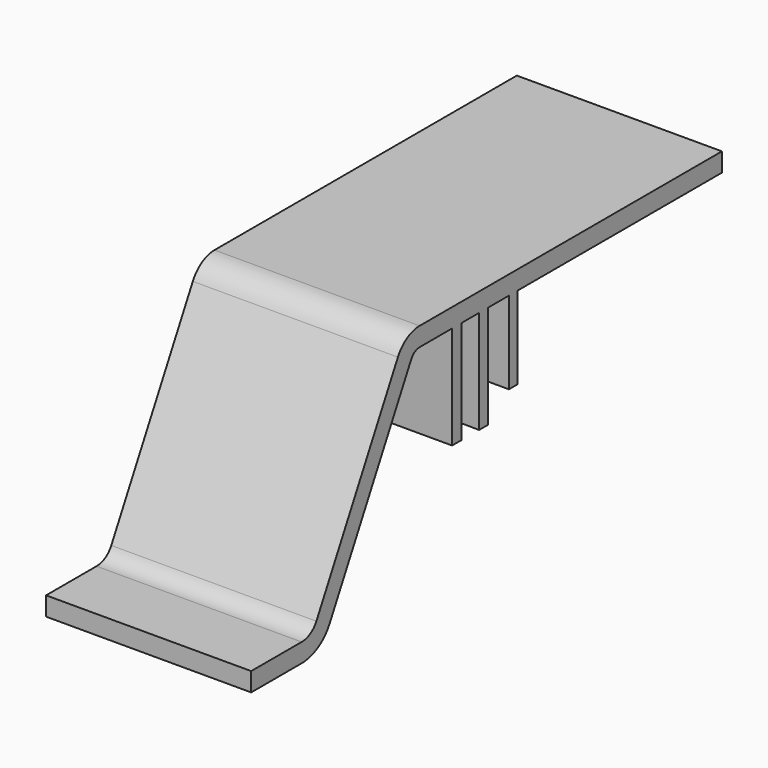
from build123d import *

# Parameters (mm, degrees)
F2_W     = 50.5212787539
F2_H     = 4.6267285943
F4_W     = 50.5212787539
F4_H     = 2.9346304946
F5_DEPTH = 20.066
F6_DEPTH = 25.4
F4_H_2   = 2.5909789344
F7_DEPTH = 20.32


with BuildPart() as f3:
    # F3: sweep along a path in F0
    with BuildLine(Plane.YZ) as f3_path:
        Line((-55.8239743114, -18.6951477081), (-40.2851480178, -18.6951477081))
        ThreePointArc((-40.2851480178, -18.6951477081), (-37.0180999924, -17.7902277993), (-34.682206865, -15.3333830466))
        Line((-34.682206865, -15.3333830466), (-9.579990698, 31.7332713683))
        ThreePointArc((-9.579990698, 31.7332713683), (-7.2440975706, 34.190116121), (-3.9770495452, 35.0950360298))
        Line((-3.9770495452, 35.0950360298), (89.1171097755, 35.0950360298))
    # F2 (on offset) → F3 (sweep)
    with BuildSketch(Plane.XZ.offset(55.88)):
        with Locations((-14.3274748698, -19.7674240917)):
            Rectangle(F2_W, F2_H)
    sweep(path=f3_path.line)

    # F4 (on face) → F5 (join)
    with BuildSketch(Plane(origin=(0, 0, 31.709395349), x_dir=(1, 0, 0), z_dir=(0, 0, -1))):
        with Locations((-14.3274748698, -7.4532397557)):
            Rectangle(F4_W, F4_H)
    extrude(amount=F5_DEPTH)

    # F4 (on face) → F6 (join)
    with BuildSketch(Plane(origin=(0, 0, 31.709395349), x_dir=(1, 0, 0), z_dir=(0, 0, -1))):
        with Locations((-14.3274748698, -7.4532397557)):
            Rectangle(F4_W, F4_H)
        Polygon((10.9331645072, -17.0301664621), (10.9331645072, -14.2893027514), (-39.5881142467, -14.9312503636), (-39.5881142467, -17.0301664621), align=None)
    extrude(amount=F6_DEPTH)

    # F4 (on face) → F7 (join)
    with BuildSketch(Plane(origin=(0, 0, 31.709395349), x_dir=(1, 0, 0), z_dir=(0, 0, -1))):
        with Locations((-14.3274748698, -24.7733006254)):
            Rectangle(F4_W, F4_H_2)
    extrude(amount=F7_DEPTH)


solid = f3.part
